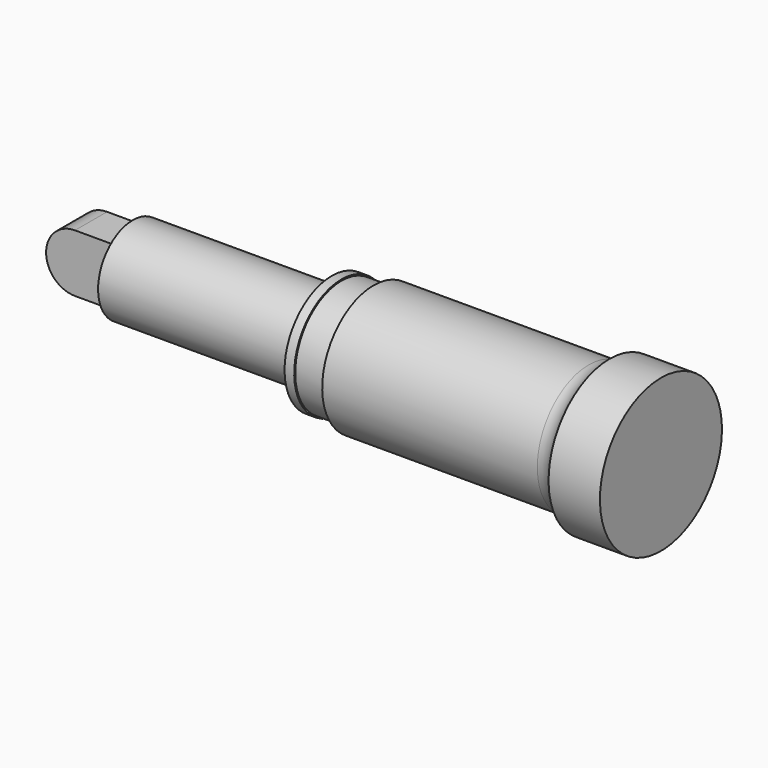
from build123d import *

# Parameters (mm, degrees)
F0_W     = 30
F0_H     = 13.5
F3_DEPTH = 6.25


with BuildPart() as f1:
    # F0 (on Front) → F1 (revolve)
    with BuildSketch(Plane.XZ):
        with BuildLine():
            Line((-14.068921, 11.673069), (-14.068921, 6.773069))
            Line((-14.068921, 6.773069), (15.931079, 6.773069))
            Line((15.931079, 6.773069), (72.431079, 6.773069))
            Line((72.431079, 6.773069), (72.431079, -6.726931))
            Line((72.431079, -6.726931), (88.431079, -6.726931))
            Line((88.431079, -6.726931), (88.431079, 11.273069))
            Line((88.431079, 11.273069), (88.431079, 17.023069))
            Line((88.431079, 17.023069), (72.431079, 17.023069))
            ThreePointArc((72.431079, 17.023069), (69.683162, 14.277792), (65.931079, 13.273069))
            Line((65.931079, 13.273069), (-1.068921, 13.273069))
            Line((-1.068921, 13.273069), (-1.068921, 11.273069))
            Line((-1.068921, 11.273069), (-11.068921, 11.273069))
            Line((-11.068921, 11.273069), (-11.068921, 11.673069))
            Line((-11.068921, 11.673069), (-14.068921, 11.673069))
        make_face()
    revolve(axis=Axis((-45.068921, 0, -6.726931), (-1, 0, 0)))


with BuildPart() as f2:
    # F0 (on Front) → F2 (revolve)
    with BuildSketch(Plane.XZ):
        Polygon((-76.068921, 2.273069), (-76.068921, -6.726931), (-14.068921, -6.726931), (-14.068921, 6.773069), (-76.068921, 6.773069), align=None)
        with Locations((0.931079, 0.023069)):
            Rectangle(F0_W, F0_H)
    revolve(axis=Axis((-45.068921, 0, -6.726931), (-1, 0, 0)))

    # F0 (on Front) → F3 (join, symmetric)
    with BuildSketch(Plane.XZ):
        with BuildLine():
            Line((-89.068921, -6.726931), (-80.068921, -6.726931))
            ThreePointArc((-80.068921, -6.726931), (-82.70496, -0.36297), (-89.068921, 2.273069))
            Line((-89.068921, 2.273069), (-89.068921, -6.726931))
        make_face()
        with BuildLine():
            ThreePointArc((-89.068921, 2.273069), (-82.70496, -0.36297), (-80.068921, -6.726931))
            Line((-80.068921, -6.726931), (-76.068921, -6.726931))
            Line((-76.068921, -6.726931), (-76.068921, 2.273069))
            Line((-76.068921, 2.273069), (-89.068921, 2.273069))
        make_face()
        with BuildLine():
            Line((-76.068921, -6.726931), (-80.068921, -6.726931))
            ThreePointArc((-80.068921, -6.726931), (-82.70496, -13.090892), (-89.068921, -15.726931))
            Line((-89.068921, -15.726931), (-76.068921, -15.726931))
            Line((-76.068921, -15.726931), (-76.068921, -6.726931))
        make_face()
        with BuildLine():
            ThreePointArc((-89.068921, -15.726931), (-82.70496, -13.090892), (-80.068921, -6.726931))
            Line((-80.068921, -6.726931), (-89.068921, -6.726931))
            Line((-89.068921, -6.726931), (-89.068921, -15.726931))
        make_face()
        with BuildLine():
            Line((-89.068921, -6.726931), (-89.068921, 2.273069))
            ThreePointArc((-89.068921, 2.273069), (-98.068921, -6.726931), (-89.068921, -15.726931))
            Line((-89.068921, -15.726931), (-89.068921, -6.726931))
        make_face()
    extrude(amount=F3_DEPTH, both=True)


solid = Compound([f1.part, f2.part])
